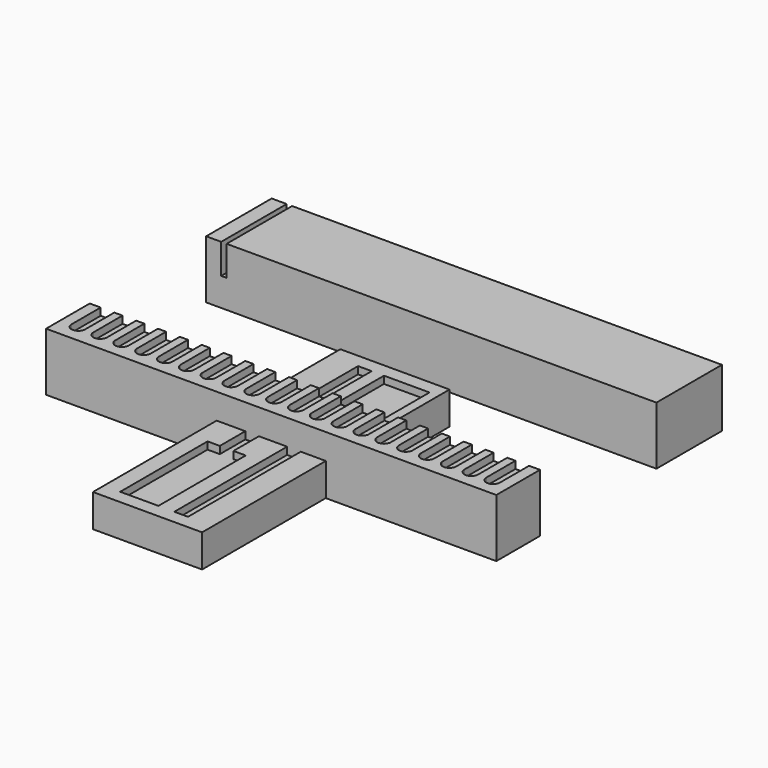
from build123d import *

# Parameters (mm, degrees)
SKETCH_W            = 247.5
SKETCH_H            = 30
PAD_DEPTH           = 32
POCKET_DEPTH        = 4
LINEARPATTERN_COUNT = 20
LINEARPATTERN_PITCH = 12
SKETCH002_W         = 247.5
SKETCH002_H         = 45
PAD001_DEPTH        = 32
SKETCH003_W         = 3
SKETCH003_H         = 45
POCKET001_DEPTH     = 16.5
SKETCH004_W         = 60
SKETCH004_H         = 170
PAD002_DEPTH        = 18
POCKET002_DEPTH     = 4


with BuildPart() as body:
    # Sketch → Pad (new body)
    with BuildSketch(Plane.XY):
        with Locations((0, 15)):
            Rectangle(SKETCH_W, SKETCH_H)
    extrude(amount=PAD_DEPTH)

    # Sketch001 (on Face6 of Pad) → Pocket (cut)
    with BuildSketch(Plane.XY.offset(32)):
        with BuildLine():
            ThreePointArc((-110.25, 45), (-114, 48.75), (-117.75, 45))
            Line((-117.75, 45), (-117.75, 10))
            ThreePointArc((-117.75, 10), (-114, 6.25), (-110.25, 10))
            Line((-110.25, 10), (-110.25, 45))
        make_face()
    pocket = extrude(amount=-POCKET_DEPTH, mode=Mode.SUBTRACT)

    # LinearPattern: Pocket ×20
    with Locations(*[(i * LINEARPATTERN_PITCH, 0, 0) for i in range(1, LINEARPATTERN_COUNT)]):
        add(pocket, mode=Mode.SUBTRACT)


with BuildPart() as body001:
    # Sketch002 → Pad001 (new body)
    with BuildSketch(Plane.XY):
        with Locations((0, 22.5)):
            Rectangle(SKETCH002_W, SKETCH002_H)
    extrude(amount=PAD001_DEPTH)

    # Sketch003 (on Face6 of Pad001) → Pocket001 (cut)
    with BuildSketch(Plane.XY.offset(32)):
        with Locations((-114, 22.5)):
            Rectangle(SKETCH003_W, SKETCH003_H)
    extrude(amount=-POCKET001_DEPTH, mode=Mode.SUBTRACT)


with BuildPart() as body001_1:
    # Body001 placement: moved
    add(body001.part.moved(Location((0, 110, 0))))


with BuildPart() as body002:
    # Sketch004 → Pad002 (new body)
    with BuildSketch(Plane.XY):
        Rectangle(SKETCH004_W, SKETCH004_H)
    extrude(amount=PAD002_DEPTH)

    # Sketch005 (on Face6 of Pad002) → Pocket002 (cut)
    with BuildSketch(Plane.XY.offset(18)):
        Polygon((0, 77.5), (25, 77.5), (25, 17.5), (16.25, 17.5), (16.25, -77.5), (8.75, -77.5), (8.75, 17.5), (0, 17.5), align=None)
        Polygon((0, -77.5), (-21, -77.5), (-21, -17.5), (-14.25, -17.5), (-14.25, 77.5), (-6.75, 77.5), (-6.75, -17.5), (0, -17.5), align=None)
    extrude(amount=-POCKET002_DEPTH, mode=Mode.SUBTRACT)


solid = Compound([body.part, body001_1.part, body002.part])
